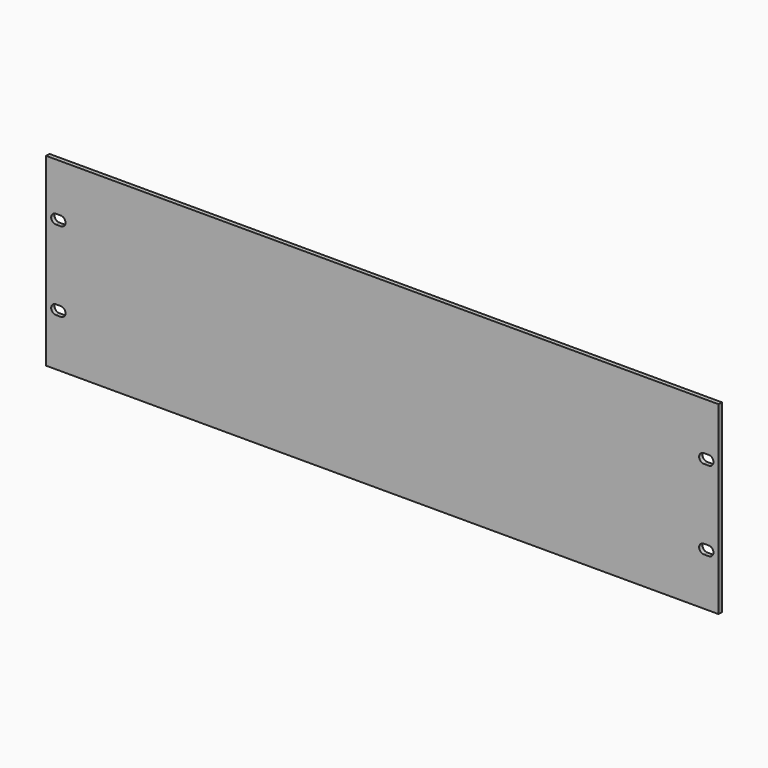
from build123d import *

# Parameters (mm, degrees)
F0_W     = 482.6
F0_H     = 132.6
F1_DEPTH = 3
F2_W     = 3.5
F2_H     = 6.8
F3_W     = 3.5
F3_H     = 6.8
F4_W     = 3.5
F4_H     = 6.8
F5_W     = 3.5
F5_H     = 6.8
F6_DEPTH = 3


with BuildPart() as f1:
    # F0 (on Front) → F1 (new body)
    with BuildSketch(Plane.XZ):
        Rectangle(F0_W, F0_H)
    extrude(amount=-F1_DEPTH)

    # F2 (on face) + F3 (on face) + F4 (on face) + F5 (on face) → F6 (cut)
    with BuildSketch(Plane.XZ):
        with Locations((-232.5, 28.6)):
            Rectangle(F2_W, F2_H)
        with BuildLine():
            Line((-230.75, 32), (-230.75, 25.2))
            ThreePointArc((-230.75, 25.2), (-227.35, 28.6), (-230.75, 32))
        make_face()
        with BuildLine():
            ThreePointArc((-234.25, 32), (-237.65, 28.6), (-234.25, 25.2))
            Line((-234.25, 25.2), (-234.25, 32))
        make_face()
    with BuildSketch(Plane.XZ):
        with Locations((-232.5, -28.6)):
            Rectangle(F3_W, F3_H)
        with BuildLine():
            Line((-230.75, -25.2), (-230.75, -32))
            ThreePointArc((-230.75, -32), (-227.35, -28.6), (-230.75, -25.2))
        make_face()
        with BuildLine():
            ThreePointArc((-234.25, -25.2), (-237.65, -28.6), (-234.25, -32))
            Line((-234.25, -32), (-234.25, -25.2))
        make_face()
    with BuildSketch(Plane.XZ):
        with Locations((232.5, 28.6)):
            Rectangle(F4_W, F4_H)
        with BuildLine():
            ThreePointArc((234.25, 25.2), (237.65, 28.6), (234.25, 32))
            Line((234.25, 32), (234.25, 25.2))
        make_face()
        with BuildLine():
            Line((230.75, 25.2), (230.75, 32))
            ThreePointArc((230.75, 32), (227.35, 28.6), (230.75, 25.2))
        make_face()
    with BuildSketch(Plane.XZ):
        with Locations((232.5, -28.6)):
            Rectangle(F5_W, F5_H)
        with BuildLine():
            Line((234.25, -25.2), (234.25, -32))
            ThreePointArc((234.25, -32), (237.65, -28.6), (234.25, -25.2))
        make_face()
        with BuildLine():
            ThreePointArc((230.75, -25.2), (227.35, -28.6), (230.75, -32))
            Line((230.75, -32), (230.75, -25.2))
        make_face()
    extrude(amount=-F6_DEPTH, mode=Mode.SUBTRACT)


solid = f1.part
